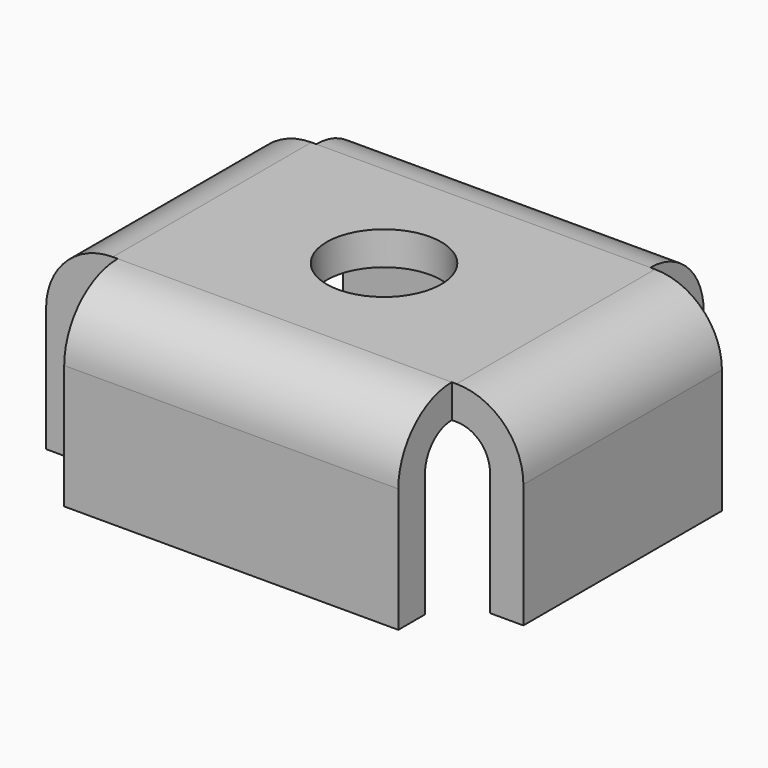
from build123d import *

# Parameters (mm, degrees)
F1_DEPTH = 2.6
F3_DEPTH = 3.5
F5_D     = 2.4


with BuildPart() as f1:
    # F0 (on Front) → F1 (new body, symmetric)
    with BuildSketch(Plane.XZ):
        with BuildLine():
            Line((-3.6, -0.35), (3.6, -0.35))
            ThreePointArc((3.6, -0.35), (4.0949747468, -0.5550252532), (4.3, -1.05))
            Line((4.3, -1.05), (4.3, -3.65))
            Line((4.3, -3.65), (5, -3.65))
            Line((5, -3.65), (5, -1.05))
            ThreePointArc((5, -1.05), (4.5899494937, -0.0600505063), (3.6, 0.35))
            Line((3.6, 0.35), (-3.6, 0.35))
            ThreePointArc((-3.6, 0.35), (-4.5899494937, -0.0600505063), (-5, -1.05))
            Line((-5, -1.05), (-5, -3.65))
            Line((-5, -3.65), (-4.3, -3.65))
            Line((-4.3, -3.65), (-4.3, -1.05))
            ThreePointArc((-4.3, -1.05), (-4.0949747468, -0.5550252532), (-3.6, -0.35))
        make_face()
    extrude(amount=F1_DEPTH, both=True)

    # F2 (on Right) → F3 (join, symmetric)
    with BuildSketch(Plane.YZ):
        with BuildLine():
            Line((-4, -3.65), (-3.3, -3.65))
            Line((-3.3, -3.65), (-3.3, -1.05))
            ThreePointArc((-3.3, -1.05), (-3.0949747468, -0.5550252532), (-2.6, -0.35))
            Line((-2.6, -0.35), (-2.6, 0.35))
            ThreePointArc((-2.6, 0.35), (-3.5899494937, -0.0600505063), (-4, -1.05))
            Line((-4, -1.05), (-4, -3.65))
        make_face()
        with BuildLine():
            ThreePointArc((4, -1.05), (3.5899494937, -0.0600505063), (2.6, 0.35))
            Line((2.6, 0.35), (2.6, -0.35))
            ThreePointArc((2.6, -0.35), (3.0949747468, -0.5550252532), (3.3, -1.05))
            Line((3.3, -1.05), (3.3, -3.65))
            Line((3.3, -3.65), (4, -3.65))
            Line((4, -3.65), (4, -1.05))
        make_face()
    extrude(amount=F3_DEPTH, both=True)

    # F5 (through all)
    with Locations(Plane.XY.offset(0.35)):
        with Locations((0, 0)):
            Hole(F5_D / 2)


solid = f1.part
